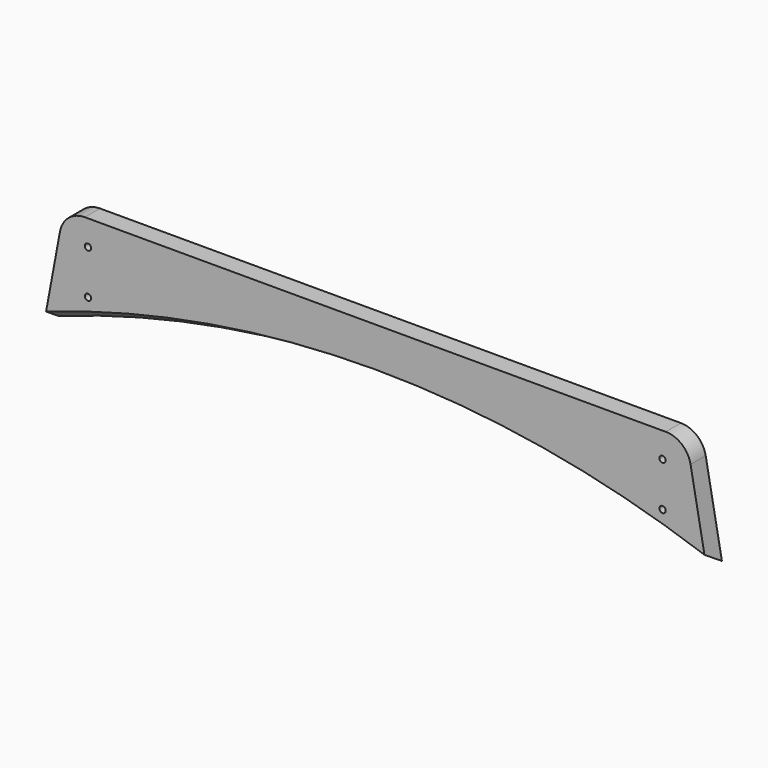
from build123d import *

# Parameters (mm, degrees)
F0_R     = 3.175
F1_DEPTH = 19.05


with BuildPart() as f1:
    # F0 (on Front) → F1 (new body)
    with BuildSketch(Plane.XZ):
        with BuildLine():
            Line((-666.75, 0), (0, 0))
            Line((0, 0), (-16.3001005448, 87.971319254))
            ThreePointArc((-16.3001005448, 87.971319254), (-25.0327750762, 102.8719380759), (-41.275, 108.74375))
            Line((-41.275, 108.74375), (-625.475, 108.74375))
            ThreePointArc((-625.475, 108.74375), (-641.7172249238, 102.8719380759), (-650.4498994552, 87.971319254))
            Line((-650.4498994552, 87.971319254), (-666.75, 0))
        make_face()
        with Locations((-622.3, 38.89375)):
            Circle(F0_R, mode=Mode.SUBTRACT)
        with Locations((-44.45, 38.89375)):
            Circle(F0_R, mode=Mode.SUBTRACT)
        with Locations((-622.3, 83.34375)):
            Circle(F0_R, mode=Mode.SUBTRACT)
        with Locations((-44.45, 83.34375)):
            Circle(F0_R, mode=Mode.SUBTRACT)
    extrude(amount=F1_DEPTH)

    # F3 (on plane+point) → F4 (revolve, cut)
    with BuildSketch(Plane.YZ.offset(-333.375)):
        Polygon((50.8, 28.6143563252), (-50.8, 87.2731436748), (-50.8, -930.0520976027), (50.8, -930.0520976027), align=None)
    revolve(axis=Axis((-333.375, 0, -930.0520976027), (0, 1, 0)), mode=Mode.SUBTRACT)


solid = f1.part
